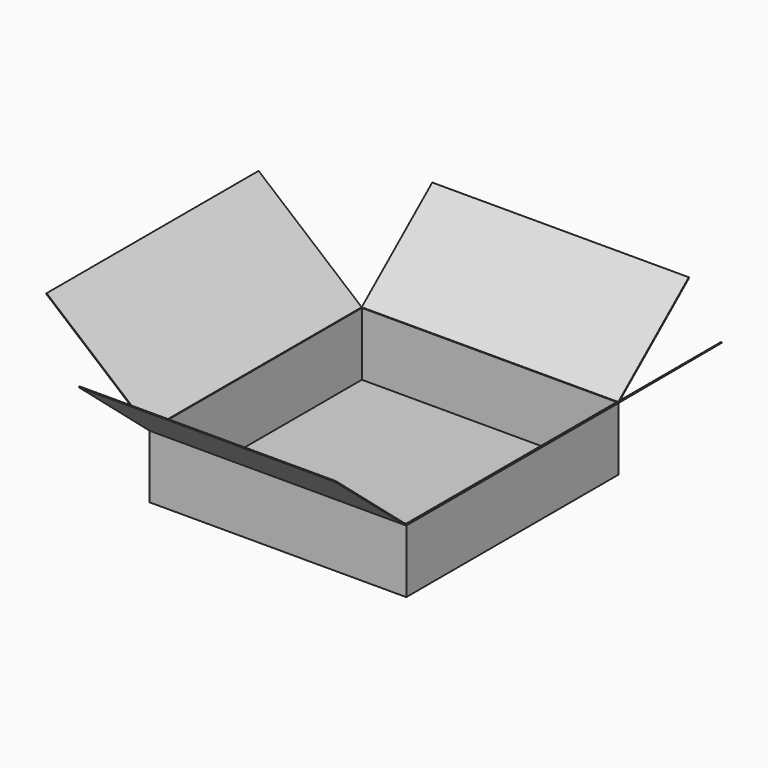
from build123d import *

# Parameters (mm, degrees)
F0_W     = 387.35
F0_H     = 400.05
F1_DEPTH = 96.774
F2_T     = -1.27
F4_DEPTH = 400.05
F6_DEPTH = 387.35


with BuildPart() as f1:
    # F0 (on Top) → F1 (new body)
    with BuildSketch(Plane.XY):
        with Locations((92.767464, 103.439062)):
            Rectangle(F0_W, F0_H)
    extrude(amount=F1_DEPTH)

    # F2
    f2_openings = [f1.faces().sort_by_distance(p)[0] for p in [
        (92.767464, 103.439062, 96.774),
    ]]
    offset(amount=F2_T, openings=f2_openings)

    # F3 (on face) → F4 (join)
    with BuildSketch(Plane.XZ.offset(96.585938)):
        Polygon((-100.907536, 95.116133), (-100.907536, 96.774), (-256.567766, 227.388442), (-257.384107, 226.415566), align=None)
        Polygon((442.102695, 227.388442), (286.442464, 96.774), (286.442464, 95.116133), (442.919036, 226.415566), align=None)
    extrude(amount=-F4_DEPTH)

    # F5 (on face) → F6 (join)
    with BuildSketch(Plane.YZ.offset(286.442464)):
        Polygon((303.464062, 96.774), (303.464062, 95.116133), (437.3699, 207.476472), (436.553559, 208.449348), align=None)
        Polygon((-230.491776, 207.476472), (-96.585938, 95.116133), (-96.585938, 96.774), (-229.675435, 208.449348), align=None)
    extrude(amount=-F6_DEPTH)


solid = f1.part
